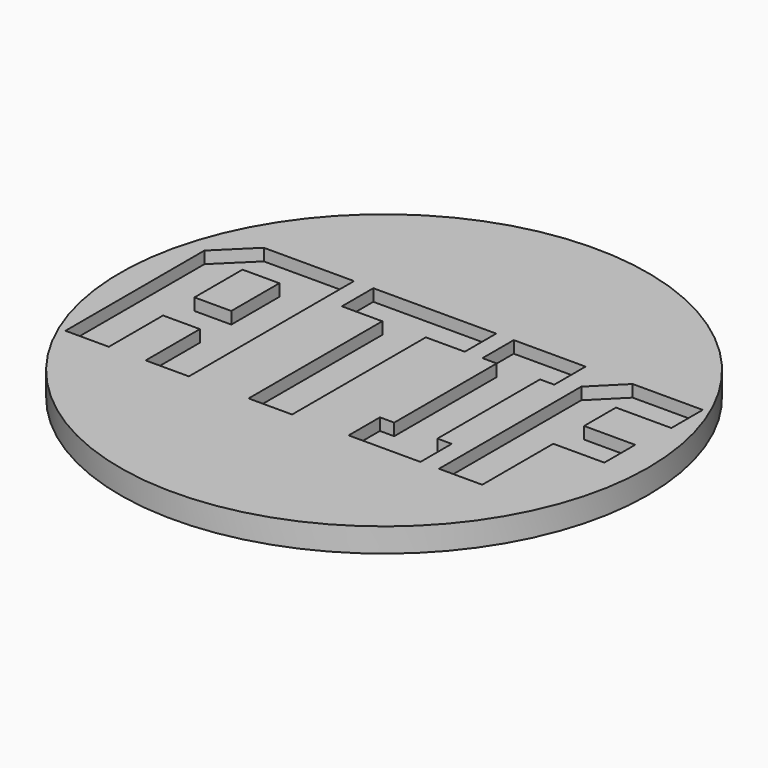
from build123d import *

# Parameters (mm, degrees)
F0_R     = 2.45
F1_DEPTH = 3.6
F2_R     = 3
F2_R_2   = 2.45
F3_DEPTH = 0.5
F4_R     = 11
F4_R_2   = 3
F5_DEPTH = 1
F6_W     = 1.534777
F6_H     = 2.504423
F7_DEPTH = 0.5


with BuildPart() as f1:
    # F0 (on Top) → F1 (new body)
    with BuildSketch(Plane.XY):
        Circle(F0_R)
    extrude(amount=F1_DEPTH)

    # F2 (on face) → F3 (join)
    with BuildSketch(Plane.XY.offset(3.6)):
        Circle(F2_R)
        Circle(F2_R_2, mode=Mode.SUBTRACT)
        Circle(F2_R_2)
    extrude(amount=F3_DEPTH)

    # F4 (on face) → F5 (join)
    with BuildSketch(Plane.XY.offset(4.1)):
        Circle(F4_R)
        Circle(F4_R_2, mode=Mode.SUBTRACT)
        Circle(F4_R_2)
    extrude(amount=F5_DEPTH)

    # F6 (on face) → F7 (cut)
    with BuildSketch(Plane.XY.offset(5.1)):
        Polygon((-9.839244, -4.300933), (-8.030824, -4.300933), (-8.030824, -1.475277), (-6.496047, -1.475277), (-6.496047, -4.300933), (-4.693576, -4.300933), (-4.693576, 4.300958), (-8.453185, 4.300958), (-9.839244, 2.938695), align=None)
        with Locations((-7.263435, 1.41284)):
            Rectangle(F6_W, F6_H, mode=Mode.SUBTRACT)
        Polygon((-0.39263, 2.665052), (1.231378, 2.665052), (1.231378, 4.300958), (-3.890495, 4.300958), (-3.890495, 2.665052), (-2.206999, 2.665052), (-2.206999, -4.300933), (-0.39263, -4.300933), align=None)
        Polygon((4.955295, -4.300933), (4.955295, -2.670976), (4.36042, -2.670976), (4.36042, 2.671001), (4.955295, 2.671001), (4.955295, 4.300958), (1.963075, 4.300958), (1.963075, 2.671001), (2.557949, 2.671001), (2.557949, -2.670976), (1.963075, -2.670976), (1.963075, -4.300933), align=None)
        Polygon((7.531104, -4.300933), (7.531104, -0.600811), (9.660756, -0.600811), (9.660756, 1.005351), (7.531104, 1.005351), (7.531104, 2.665052), (9.839219, 2.665052), (9.839219, 4.300958), (6.918383, 4.300958), (5.728633, 3.111209), (5.728633, -4.300933), align=None)
    extrude(amount=-F7_DEPTH, mode=Mode.SUBTRACT)


solid = f1.part
